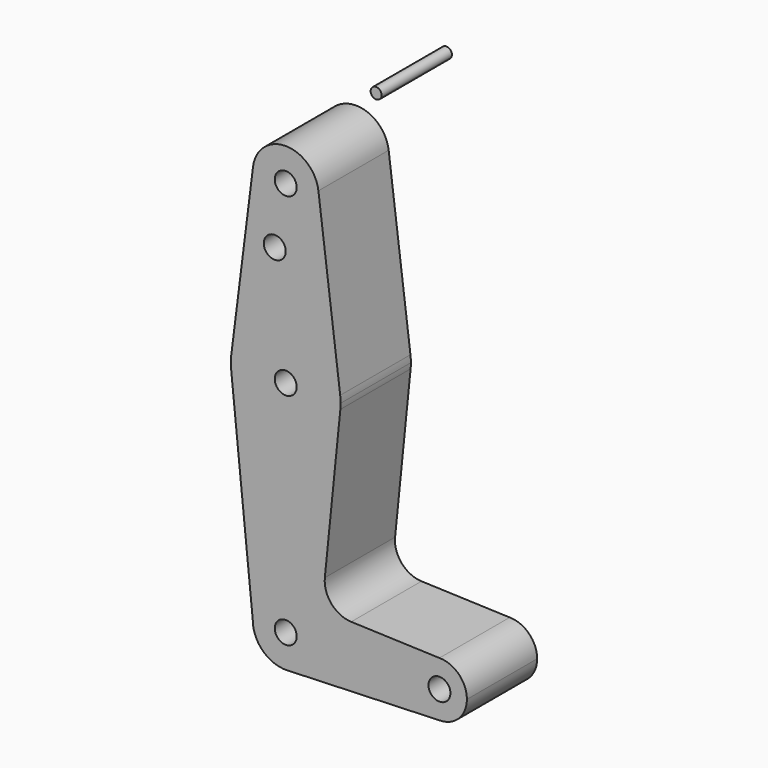
from build123d import *

# Parameters (mm, degrees)
F0_R     = 3.175
F0_R_2   = 1.5875
F1_DEPTH = 25.4


with BuildPart() as f1:
    # F0 (on Front) → F1 (new body)
    with BuildSketch(Plane.XZ):
        with BuildLine():
            ThreePointArc((-9.450293, 115.490625), (-0.596483, 104.793695), (9.525, 114.3))
            ThreePointArc((9.525, 114.3), (9.506305, 114.896483), (9.450293, 115.490625))
            ThreePointArc((9.450293, 115.490625), (0, 123.825), (-9.450293, 115.490625))
        make_face()
        with Locations((0, 114.3)):
            Circle(F0_R, mode=Mode.SUBTRACT)
        with BuildLine():
            ThreePointArc((9.450293, 115.490625), (9.506305, 114.896483), (9.525, 114.3))
            ThreePointArc((9.525, 114.3), (-0.596483, 104.793695), (-9.450293, 115.490625))
            Line((-9.450293, 115.490625), (-15.750488, 65.484375))
            ThreePointArc((-15.750488, 65.484375), (0, 79.375), (15.750488, 65.484375))
            Line((15.750488, 65.484375), (9.450293, 115.490625))
        make_face()
        with Locations((-3.175, 96.99142)):
            Circle(F0_R, mode=Mode.SUBTRACT)
        with BuildLine():
            ThreePointArc((15.875, 63.5), (15.843841, 64.494139), (15.750488, 65.484375))
            ThreePointArc((15.750488, 65.484375), (0, 79.375), (-15.750488, 65.484375))
            ThreePointArc((-15.750488, 65.484375), (-15.873819, 63.693615), (-15.794203, 61.90038))
            ThreePointArc((-15.794203, 61.90038), (0, 47.625), (15.794203, 61.90038))
            ThreePointArc((15.794203, 61.90038), (15.854788, 62.699171), (15.875, 63.5))
        make_face()
        with Locations((0, 63.5)):
            Circle(F0_R, mode=Mode.SUBTRACT)
        with BuildLine():
            ThreePointArc((15.794203, 61.90038), (0, 47.625), (-15.794203, 61.90038))
            Line((-15.794203, 61.90038), (-9.525, 0))
            ThreePointArc((-9.525, 0), (0, 9.525), (9.525, 0))
            ThreePointArc((9.525, 0), (6.854788, -6.613434), (0.341271, -9.518884))
            Line((0.341271, -9.518884), (44.45, -7.9375))
            ThreePointArc((44.45, -7.9375), (36.5125, 0), (44.45, 7.9375))
            Line((44.45, 7.9375), (18.932251, 8.852361))
            ThreePointArc((18.932251, 8.852361), (13.224458, 11.573096), (11.307362, 17.598546))
            Line((11.307362, 17.598546), (15.794203, 61.90038))
        make_face()
        with BuildLine():
            ThreePointArc((9.525, 0), (0, 9.525), (-9.525, 0))
            ThreePointArc((-9.525, 0), (-6.613434, -6.854788), (0.341271, -9.518884))
            ThreePointArc((0.341271, -9.518884), (6.854788, -6.613434), (9.525, 0))
        make_face()
        Circle(F0_R, mode=Mode.SUBTRACT)
        with BuildLine():
            ThreePointArc((44.45, 7.9375), (36.5125, 0), (44.45, -7.9375))
            ThreePointArc((44.45, -7.9375), (50.06266, -5.61266), (52.3875, 0))
            ThreePointArc((52.3875, 0), (50.06266, 5.61266), (44.45, 7.9375))
        make_face()
        with Locations((44.45, 0)):
            Circle(F0_R, mode=Mode.SUBTRACT)
        with Locations((26.144724, 145.770863)):
            Circle(F0_R_2)
    extrude(amount=F1_DEPTH)


solid = f1.part
